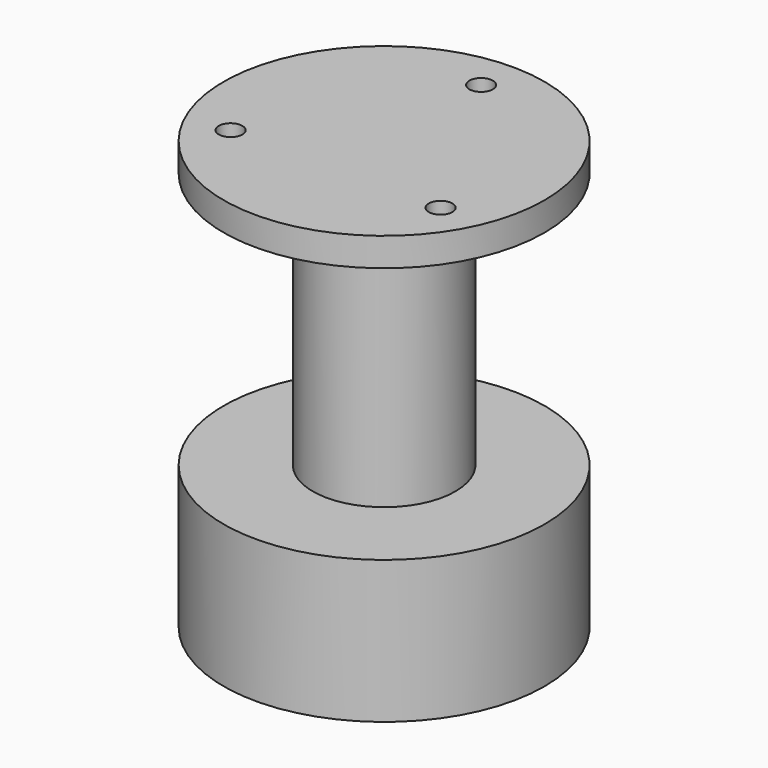
from build123d import *

# Parameters (mm, degrees)
F1_DEPTH = 20
F2_R     = 10
F3_DEPTH = 36
F4_R     = 22.5
F4_R_2   = 10
F5_DEPTH = 4
F7_D     = 3.3
F7_DEPTH = 10
F7_TIP   = 0.9914200214
F9_D     = 2.7
F9_DEPTH = 15
F9_TIP   = 0.8111618357


with BuildPart() as f1:
    # F0 (on Top) → F1 (new body)
    with BuildSketch(Plane.XY):
        with BuildLine():
            ThreePointArc((-22.5, 0), (0, -22.5), (22.5, 0))
            ThreePointArc((22.5, 0), (0, 22.5), (-22.5, 0))
        make_face()
    extrude(amount=F1_DEPTH)

    # F2 (on face) → F3 (join)
    with BuildSketch(Plane.XY.offset(20)):
        Circle(F2_R)
    extrude(amount=F3_DEPTH)

    # F4 (on face) → F5 (join)
    with BuildSketch(Plane.XY.offset(56)):
        Circle(F4_R)
        Circle(F4_R_2, mode=Mode.SUBTRACT)
        Circle(F4_R_2)
    extrude(amount=F5_DEPTH)

    # F7
    with Locations(Plane.XY.offset(60)):
        with Locations((0, 17), (14.7224318643, -8.5), (-14.7224318643, -8.5)):
            Hole(F7_D / 2, depth=F7_DEPTH)
            with Locations((0, 0, -(F7_DEPTH + F7_TIP / 2))):  # 118° drill point
                Cone(0, F7_D / 2, F7_TIP, mode=Mode.SUBTRACT)

    # F9
    with Locations(Plane(origin=(0, 0, 0), x_dir=(1, 0, 0), z_dir=(0, 0, -1))):
        with Locations((14.7224318643, -8.5), (-14.7224318643, -8.5), (0, 17)):
            Hole(F9_D / 2, depth=F9_DEPTH)
            with Locations((0, 0, -(F9_DEPTH + F9_TIP / 2))):  # 118° drill point
                Cone(0, F9_D / 2, F9_TIP, mode=Mode.SUBTRACT)


solid = f1.part
